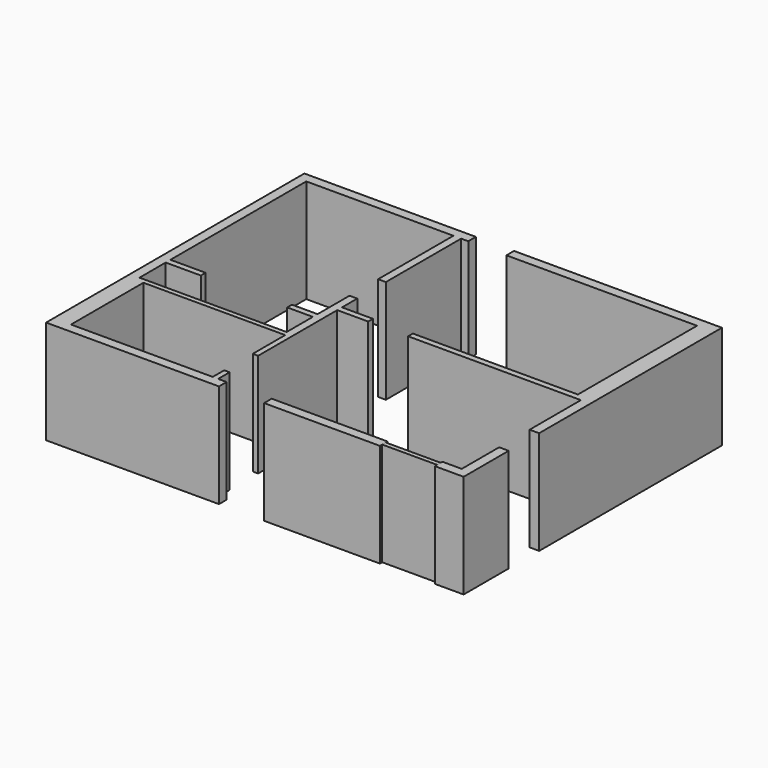
from build123d import *

# Parameters (mm, degrees)
F1_DEPTH = 2209.8
F0_W     = 1168.4
F0_H     = 95.366954
F2_DEPTH = 2209.8


with BuildPart() as f1:
    # F0 (on Top) → F1 (new body)
    with BuildSketch(Plane.XY):
        Polygon((-727.601136, 732.391245), (-727.601136, 2738.991245), (-575.201136, 2738.991245), (-575.201136, 2942.191245), (-4232.801136, 2942.191245), (-4232.801136, -3941.208755), (-546.626136, -3941.208755), (-546.626136, -3738.008755), (-727.601136, -3738.008755), (-727.601136, -3433.208755), (-841.901136, -3433.208755), (-841.901136, -3738.008755), (-3864.501136, -3738.008755), (-3864.501136, -1807.608755), (-841.901136, -1807.608755), (-841.901136, -2671.208755), (-727.601136, -2671.208755), (-727.601136, -563.008755), (-67.201136, -563.008755), (-67.201136, -436.008755), (-727.601136, -436.008755), (-727.601136, -29.608755), (-892.701136, -29.608755), (-892.701136, -880.508755), (-1438.801136, -880.508755), (-1438.801136, -1007.508755), (-892.701136, -1007.508755), (-892.701136, -1706.008755), (-4029.601136, -1706.008755), (-4029.601136, -1007.508755), (-3280.301136, -1007.508755), (-3280.301136, -880.508755), (-4029.601136, -880.508755), (-4029.601136, 2738.991245), (-892.701136, 2738.991245), (-892.701136, 732.391245), align=None)
        Polygon((2885.548864, -3738.008755), (415.398864, -3738.008755), (415.398864, -3941.208755), (2885.548864, -3941.208755), (2885.548864, -3880.171537), (2885.548864, -3784.804583), align=None)
        Polygon((4053.948864, -3738.008755), (4053.948864, -3784.804583), (4053.948864, -3880.171537), (4053.948864, -3941.208755), (4669.898864, -3941.208755), (4669.898864, -2741.058755), (4466.698864, -2741.058755), (4466.698864, -3738.008755), align=None)
        Polygon((237.598864, 2738.991245), (4301.598864, 2738.991245), (4301.598864, -436.008755), (783.698864, -436.008755), (783.698864, -563.008755), (4466.698864, -563.008755), (4466.698864, -1928.258755), (4669.898864, -1928.258755), (4669.898864, 2942.191245), (237.598864, 2942.191245), align=None)
    extrude(amount=F1_DEPTH)


with BuildPart() as f2:
    # F0 (on Top) → F2 (new body, through all)
    with BuildSketch(Plane.XY):
        with Locations((3469.748864, -3832.48806)):
            Rectangle(F0_W, F0_H)
    extrude(amount=F2_DEPTH)


solid = Compound([f1.part, f2.part])
